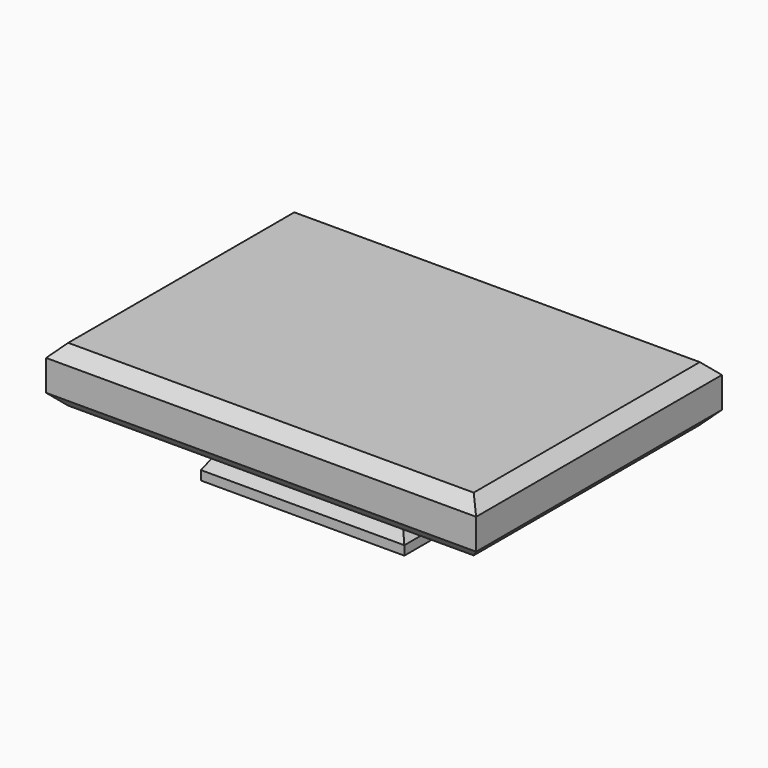
from build123d import *

# Parameters (mm, degrees)
F0_W          = 70
F0_H          = 50
F1_DEPTH      = 9
F2_W          = 35
F2_H          = 35
F3_DEPTH      = 8
F5_DEPTH      = 25
F5_DEPTH_BACK = 25
F6_W          = 0.9375
F6_H          = 1.5
F7_DEPTH      = 25
F7_DEPTH_BACK = 25
F8_SIZE       = 2


with BuildPart() as f1:
    # F0 (on Top) → F1 (new body)
    with BuildSketch(Plane.XY):
        Rectangle(F0_W, F0_H)
    extrude(amount=F1_DEPTH)

    # F2 (on face) → F3 (join)
    with BuildSketch(Plane(origin=(0, 0, 0), x_dir=(1, 0, 0), z_dir=(0, 0, -1))):
        Rectangle(F2_W, F2_H)
    extrude(amount=F3_DEPTH)

    # F4 (on Front) → F5 (cut, two sides)
    with BuildSketch(Plane.XZ) as f5_sk:
        Polygon((12.5, 0), (16.5625, -6.5), (16.5625, -8), (17.5, -8), (17.5, 0), align=None)
        Polygon((-16.5625, -6.5), (-12.5, 0), (-17.5, 0), (-17.5, -8), (-16.5625, -8), align=None)
    extrude(amount=-F5_DEPTH, mode=Mode.SUBTRACT)
    extrude(f5_sk.sketch, amount=F5_DEPTH_BACK, mode=Mode.SUBTRACT)

    # F6 (on Right) → F7 (cut, two sides)
    with BuildSketch(Plane.YZ) as f7_sk:
        Polygon((17.5, 0), (12.5, 0), (16.5625, -6.5), (17.5, -6.5), align=None)
        with Locations((17.03125, -7.25)):
            Rectangle(F6_W, F6_H)
        Polygon((-17.5, 0), (-17.5, -8), (-16.5625, -8), (-16.5625, -6.5), (-12.5, 0), align=None)
    extrude(amount=-F7_DEPTH, mode=Mode.SUBTRACT)
    extrude(f7_sk.sketch, amount=F7_DEPTH_BACK, mode=Mode.SUBTRACT)

    # F8
    f8_edges = [f1.edges().sort_by_distance(p)[0] for p in [
        (35, 0, 9),
        (0, 25, 9),
        (-35, 0, 9),
        (0, -25, 9),
        (0, -25, 0),
        (35, 0, 0),
        (0, 25, 0),
        (-35, 0, 0),
    ]]
    chamfer(f8_edges, length=F8_SIZE)


solid = f1.part
